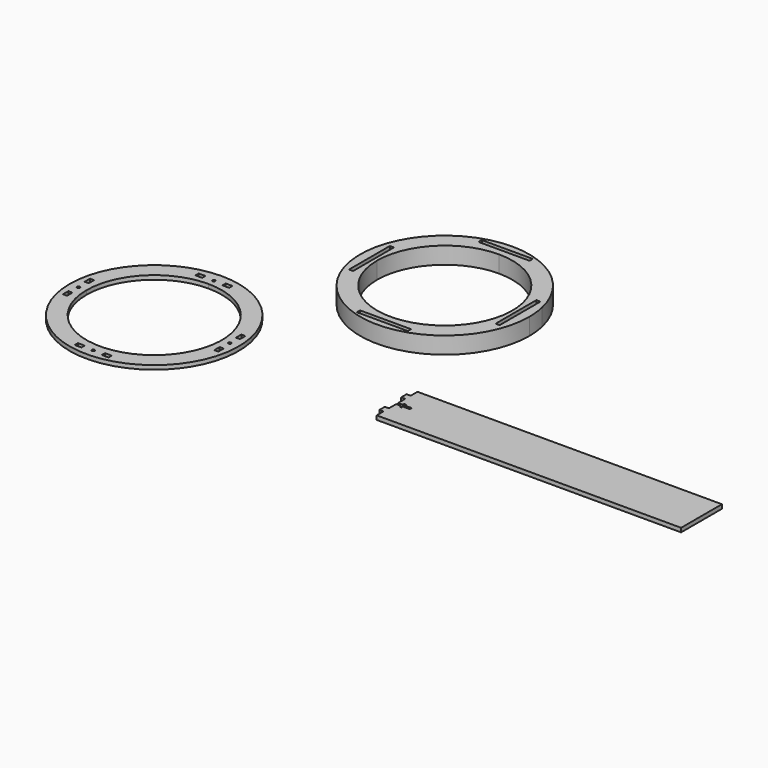
from build123d import *

# Parameters (mm, degrees)
F1_DEPTH = 6
F2_R     = 2.1
F2_W     = 10
F2_H     = 6
F3_DEPTH = 6
F4_DEPTH = 25
F6_DEPTH = 25


with BuildPart() as f1:
    # F0 (on Top) → F1 (new body)
    with BuildSketch(Plane.XY):
        Polygon((279.1693404089, 99.1658887499), (-53.8306595911, 99.1658887499), (-53.8306595911, 86.5923102222), (-59.8659772844, 86.5923102222), (-59.8659772844, 76.5334474001), (-53.8306595911, 76.5334474001), (-53.8306595911, 63.2054541607), (-46.7894556156, 63.2054541607), (-46.7894556156, 65.7201698663), (-43.7717967689, 65.7201698663), (-43.7717967689, 63.2054541607), (-33.7129339468, 63.2054541607), (-33.7129339468, 59.684852173), (-43.7717967689, 59.684852173), (-43.7717967689, 57.1701364674), (-46.7894556156, 57.1701364674), (-46.7894556156, 59.684852173), (-53.8306595911, 59.684852173), (-53.8306595911, 46.3568589336), (-59.8659772844, 46.3568589336), (-59.8659772844, 36.2979961115), (-53.8306595911, 36.2979961115), (-53.8306595911, 23.7244175838), (279.1693404089, 23.7244175838), (396.1693404089, 23.7244175838), (396.1693404089, 99.1658887499), align=None)
    extrude(amount=F1_DEPTH)

    # F2 (on Top) → F4 (cut)
    with BuildSketch(Plane.XY):
        with BuildLine():
            ThreePointArc((-535.8952581882, 58.9019991457), (-410.8952581882, -66.0980008543), (-285.8952581882, 58.9019991457))
            ThreePointArc((-285.8952581882, 58.9019991457), (-322.5069105399, 147.2903467941), (-410.8952581882, 183.9019991457))
            Line((-410.8952581882, 183.9019991457), (-410.8952581882, 171.3260555502))
            ThreePointArc((-410.8952581882, 171.3260555502), (-409.4250397969, 170.7030497302), (-408.8179735184, 169.2261784077))
            ThreePointArc((-408.8179735184, 169.2261784077), (-409.4250397969, 167.7493070851), (-410.8952581882, 167.1263012651))
            Line((-410.8952581882, 167.1263012651), (-410.8952581882, 158.9019991457))
            ThreePointArc((-410.8952581882, 158.9019991457), (-340.1845800696, 129.6126772644), (-310.8952581882, 58.9019991457))
            ThreePointArc((-310.8952581882, 58.9019991457), (-410.8952581882, -41.0980008543), (-510.8952581882, 58.9019991457))
            Line((-510.8952581882, 58.9019991457), (-520.629256827, 58.9019991457))
            ThreePointArc((-520.629256827, 58.9019991457), (-520.629243447, 58.8976711127), (-520.629238987, 58.8933430612))
            ThreePointArc((-520.629238987, 58.8933430612), (-522.7335670384, 56.7933475212), (-524.8292211469, 58.9019991457))
            Line((-524.8292211469, 58.9019991457), (-535.8952581882, 58.9019991457))
        make_face()
        Polygon((-435.9179735184, -50.7677718997), (-430.9179735184, -50.7677718997), (-425.9179735184, -50.7677718997), (-425.9179735184, -53.7677718997), (-425.9179735184, -56.7677718997), (-430.9179735184, -56.7677718997), (-435.9179735184, -56.7677718997), (-435.9179735184, -53.7677718997), align=None, mode=Mode.SUBTRACT)
        with Locations((-410.9179735184, -53.7677718997)):
            Circle(F2_R, mode=Mode.SUBTRACT)
        Polygon((-519.729238987, 43.8933430612), (-519.729238987, 38.8933430612), (-519.729238987, 33.8933430612), (-522.729238987, 33.8933430612), (-525.729238987, 33.8933430612), (-525.729238987, 38.8933430612), (-525.729238987, 43.8933430612), (-522.729238987, 43.8933430612), align=None, mode=Mode.SUBTRACT)
        Polygon((-395.9179735184, -56.7677718997), (-395.9179735184, -53.7677718997), (-395.9179735184, -50.7677718997), (-390.9179735184, -50.7677718997), (-385.9179735184, -50.7677718997), (-385.9179735184, -53.7677718997), (-385.9179735184, -56.7677718997), (-390.9179735184, -56.7677718997), align=None, mode=Mode.SUBTRACT)
        Polygon((-296.0612773895, 33.8933430612), (-299.0612773895, 33.8933430612), (-302.0612773895, 33.8933430612), (-302.0612773895, 38.8933430612), (-302.0612773895, 43.8933430612), (-299.0612773895, 43.8933430612), (-296.0612773895, 43.8933430612), (-296.0612773895, 38.8933430612), align=None, mode=Mode.SUBTRACT)
        with Locations((-299.0612773895, 58.8933430612)):
            Circle(F2_R, mode=Mode.SUBTRACT)
        Polygon((-296.0612773895, 73.8933430612), (-299.0612773895, 73.8933430612), (-302.0612773895, 73.8933430612), (-302.0612773895, 78.8933430612), (-302.0612773895, 83.8933430612), (-299.0612773895, 83.8933430612), (-296.0612773895, 83.8933430612), (-296.0612773895, 78.8933430612), align=None, mode=Mode.SUBTRACT)
        with Locations((-390.9179735184, 169.2261784077)):
            Rectangle(F2_W, F2_H, mode=Mode.SUBTRACT)
        with BuildLine():
            Line((-410.8952581882, 171.3260555502), (-410.8952581882, 183.9019991457))
            ThreePointArc((-410.8952581882, 183.9019991457), (-499.2836058366, 147.2903467941), (-535.8952581882, 58.9019991457))
            Line((-535.8952581882, 58.9019991457), (-524.8292211469, 58.9019991457))
            ThreePointArc((-524.8292211469, 58.9019991457), (-522.729238987, 60.9933430612), (-520.629256827, 58.9019991457))
            Line((-520.629256827, 58.9019991457), (-510.8952581882, 58.9019991457))
            ThreePointArc((-510.8952581882, 58.9019991457), (-481.6059363069, 129.6126772644), (-410.8952581882, 158.9019991457))
            Line((-410.8952581882, 158.9019991457), (-410.8952581882, 167.1263012651))
            ThreePointArc((-410.8952581882, 167.1263012651), (-413.0179735184, 169.2261784077), (-410.8952581882, 171.3260555502))
        make_face()
        Polygon((-519.729238987, 73.8933430612), (-522.729238987, 73.8933430612), (-525.729238987, 73.8933430612), (-525.729238987, 78.8933430612), (-525.729238987, 83.8933430612), (-522.729238987, 83.8933430612), (-519.729238987, 83.8933430612), (-519.729238987, 78.8933430612), align=None, mode=Mode.SUBTRACT)
        with Locations((-430.9179735184, 169.2261784077)):
            Rectangle(F2_W, F2_H, mode=Mode.SUBTRACT)
    extrude(amount=-F4_DEPTH, mode=Mode.SUBTRACT)


with BuildPart() as f3:
    # F2 (on Top) → F3 (new body)
    with BuildSketch(Plane.XY):
        with BuildLine():
            ThreePointArc((-535.8952581882, 58.9019991457), (-410.8952581882, -66.0980008543), (-285.8952581882, 58.9019991457))
            ThreePointArc((-285.8952581882, 58.9019991457), (-322.5069105399, 147.2903467941), (-410.8952581882, 183.9019991457))
            Line((-410.8952581882, 183.9019991457), (-410.8952581882, 171.3260555502))
            ThreePointArc((-410.8952581882, 171.3260555502), (-409.4250397969, 170.7030497302), (-408.8179735184, 169.2261784077))
            ThreePointArc((-408.8179735184, 169.2261784077), (-409.4250397969, 167.7493070851), (-410.8952581882, 167.1263012651))
            Line((-410.8952581882, 167.1263012651), (-410.8952581882, 158.9019991457))
            ThreePointArc((-410.8952581882, 158.9019991457), (-340.1845800696, 129.6126772644), (-310.8952581882, 58.9019991457))
            ThreePointArc((-310.8952581882, 58.9019991457), (-410.8952581882, -41.0980008543), (-510.8952581882, 58.9019991457))
            Line((-510.8952581882, 58.9019991457), (-520.629256827, 58.9019991457))
            ThreePointArc((-520.629256827, 58.9019991457), (-520.629243447, 58.8976711127), (-520.629238987, 58.8933430612))
            ThreePointArc((-520.629238987, 58.8933430612), (-522.7335670384, 56.7933475212), (-524.8292211469, 58.9019991457))
            Line((-524.8292211469, 58.9019991457), (-535.8952581882, 58.9019991457))
        make_face()
        Polygon((-435.9179735184, -50.7677718997), (-430.9179735184, -50.7677718997), (-425.9179735184, -50.7677718997), (-425.9179735184, -53.7677718997), (-425.9179735184, -56.7677718997), (-430.9179735184, -56.7677718997), (-435.9179735184, -56.7677718997), (-435.9179735184, -53.7677718997), align=None, mode=Mode.SUBTRACT)
        with Locations((-410.9179735184, -53.7677718997)):
            Circle(F2_R, mode=Mode.SUBTRACT)
        Polygon((-519.729238987, 43.8933430612), (-519.729238987, 38.8933430612), (-519.729238987, 33.8933430612), (-522.729238987, 33.8933430612), (-525.729238987, 33.8933430612), (-525.729238987, 38.8933430612), (-525.729238987, 43.8933430612), (-522.729238987, 43.8933430612), align=None, mode=Mode.SUBTRACT)
        Polygon((-395.9179735184, -56.7677718997), (-395.9179735184, -53.7677718997), (-395.9179735184, -50.7677718997), (-390.9179735184, -50.7677718997), (-385.9179735184, -50.7677718997), (-385.9179735184, -53.7677718997), (-385.9179735184, -56.7677718997), (-390.9179735184, -56.7677718997), align=None, mode=Mode.SUBTRACT)
        Polygon((-296.0612773895, 33.8933430612), (-299.0612773895, 33.8933430612), (-302.0612773895, 33.8933430612), (-302.0612773895, 38.8933430612), (-302.0612773895, 43.8933430612), (-299.0612773895, 43.8933430612), (-296.0612773895, 43.8933430612), (-296.0612773895, 38.8933430612), align=None, mode=Mode.SUBTRACT)
        with Locations((-299.0612773895, 58.8933430612)):
            Circle(F2_R, mode=Mode.SUBTRACT)
        Polygon((-296.0612773895, 73.8933430612), (-299.0612773895, 73.8933430612), (-302.0612773895, 73.8933430612), (-302.0612773895, 78.8933430612), (-302.0612773895, 83.8933430612), (-299.0612773895, 83.8933430612), (-296.0612773895, 83.8933430612), (-296.0612773895, 78.8933430612), align=None, mode=Mode.SUBTRACT)
        with Locations((-390.9179735184, 169.2261784077)):
            Rectangle(F2_W, F2_H, mode=Mode.SUBTRACT)
        with BuildLine():
            Line((-410.8952581882, 171.3260555502), (-410.8952581882, 183.9019991457))
            ThreePointArc((-410.8952581882, 183.9019991457), (-499.2836058366, 147.2903467941), (-535.8952581882, 58.9019991457))
            Line((-535.8952581882, 58.9019991457), (-524.8292211469, 58.9019991457))
            ThreePointArc((-524.8292211469, 58.9019991457), (-522.729238987, 60.9933430612), (-520.629256827, 58.9019991457))
            Line((-520.629256827, 58.9019991457), (-510.8952581882, 58.9019991457))
            ThreePointArc((-510.8952581882, 58.9019991457), (-481.6059363069, 129.6126772644), (-410.8952581882, 158.9019991457))
            Line((-410.8952581882, 158.9019991457), (-410.8952581882, 167.1263012651))
            ThreePointArc((-410.8952581882, 167.1263012651), (-413.0179735184, 169.2261784077), (-410.8952581882, 171.3260555502))
        make_face()
        Polygon((-519.729238987, 73.8933430612), (-522.729238987, 73.8933430612), (-525.729238987, 73.8933430612), (-525.729238987, 78.8933430612), (-525.729238987, 83.8933430612), (-522.729238987, 83.8933430612), (-519.729238987, 83.8933430612), (-519.729238987, 78.8933430612), align=None, mode=Mode.SUBTRACT)
        with Locations((-430.9179735184, 169.2261784077)):
            Rectangle(F2_W, F2_H, mode=Mode.SUBTRACT)
    extrude(amount=F3_DEPTH)


with BuildPart() as f6:
    # F5 (on Top) → F6 (new body)
    with BuildSketch(Plane.XY):
        with BuildLine():
            Line((-61.0462027192, 297.6752446951), (-47.3733710892, 297.6752446951))
            ThreePointArc((-47.3733710892, 297.6752446951), (-48.1133448219, 311.256329779), (-50.3245050421, 324.6766205232))
            ThreePointArc((-50.3245050421, 324.6766205232), (-94.1115412438, 395.1436292578), (-172.3733710892, 422.6752446951))
            Line((-172.3733710892, 422.6752446951), (-172.3733710892, 413.1752446951))
            Line((-172.3733710892, 413.1752446951), (-134.6733710892, 413.1752446951))
            Line((-134.6733710892, 413.1752446951), (-134.6733710892, 410.1752446951))
            Line((-134.6733710892, 410.1752446951), (-134.6733710892, 407.1752446951))
            Line((-134.6733710892, 407.1752446951), (-172.3733710892, 407.1752446951))
            Line((-172.3733710892, 407.1752446951), (-172.3733710892, 397.6752446951))
            ThreePointArc((-172.3733710892, 397.6752446951), (-101.6626929706, 368.3859228138), (-72.3733710892, 297.6752446951))
            Line((-72.3733710892, 297.6752446951), (-67.0462027192, 297.6752446951))
            Line((-67.0462027192, 297.6752446951), (-67.0462027192, 335.3752446951))
            Line((-67.0462027192, 335.3752446951), (-61.0462027192, 335.3752446951))
            Line((-61.0462027192, 335.3752446951), (-61.0462027192, 297.6752446951))
        make_face()
        with BuildLine():
            ThreePointArc((-297.3733710892, 297.6752446951), (-172.3733710892, 172.6752446951), (-47.3733710892, 297.6752446951))
            Line((-47.3733710892, 297.6752446951), (-61.0462027192, 297.6752446951))
            Line((-61.0462027192, 297.6752446951), (-61.0462027192, 259.9752446951))
            Line((-61.0462027192, 259.9752446951), (-67.0462027192, 259.9752446951))
            Line((-67.0462027192, 259.9752446951), (-67.0462027192, 297.6752446951))
            Line((-67.0462027192, 297.6752446951), (-72.3733710892, 297.6752446951))
            ThreePointArc((-72.3733710892, 297.6752446951), (-172.3733710892, 197.6752446951), (-272.3733710892, 297.6752446951))
            Line((-272.3733710892, 297.6752446951), (-277.7005394592, 297.6752446951))
            Line((-277.7005394592, 297.6752446951), (-277.7005394592, 259.9752446951))
            Line((-277.7005394592, 259.9752446951), (-283.7005394592, 259.9752446951))
            Line((-283.7005394592, 259.9752446951), (-283.7005394592, 297.6752446951))
            Line((-283.7005394592, 297.6752446951), (-297.3733710892, 297.6752446951))
        make_face()
        Polygon((-134.6733710892, 185.1752446951), (-134.6733710892, 182.1752446951), (-172.3733710892, 182.1752446951), (-210.0733710892, 182.1752446951), (-210.0733710892, 185.1752446951), (-210.0733710892, 188.1752446951), (-172.3733710892, 188.1752446951), (-134.6733710892, 188.1752446951), align=None, mode=Mode.SUBTRACT)
        with BuildLine():
            ThreePointArc((-172.3733710892, 422.6752446951), (-260.7617187375, 386.0635923434), (-297.3733710892, 297.6752446951))
            Line((-297.3733710892, 297.6752446951), (-283.7005394592, 297.6752446951))
            Line((-283.7005394592, 297.6752446951), (-283.7005394592, 335.3752446951))
            Line((-283.7005394592, 335.3752446951), (-277.7005394592, 335.3752446951))
            Line((-277.7005394592, 335.3752446951), (-277.7005394592, 297.6752446951))
            Line((-277.7005394592, 297.6752446951), (-272.3733710892, 297.6752446951))
            ThreePointArc((-272.3733710892, 297.6752446951), (-243.0840492079, 368.3859228138), (-172.3733710892, 397.6752446951))
            Line((-172.3733710892, 397.6752446951), (-172.3733710892, 407.1752446951))
            Line((-172.3733710892, 407.1752446951), (-210.0733710892, 407.1752446951))
            Line((-210.0733710892, 407.1752446951), (-210.0733710892, 410.1752446951))
            Line((-210.0733710892, 410.1752446951), (-210.0733710892, 413.1752446951))
            Line((-210.0733710892, 413.1752446951), (-172.3733710892, 413.1752446951))
            Line((-172.3733710892, 413.1752446951), (-172.3733710892, 422.6752446951))
        make_face()
    extrude(amount=F6_DEPTH)


solid = Compound([f1.part, f3.part, f6.part])
